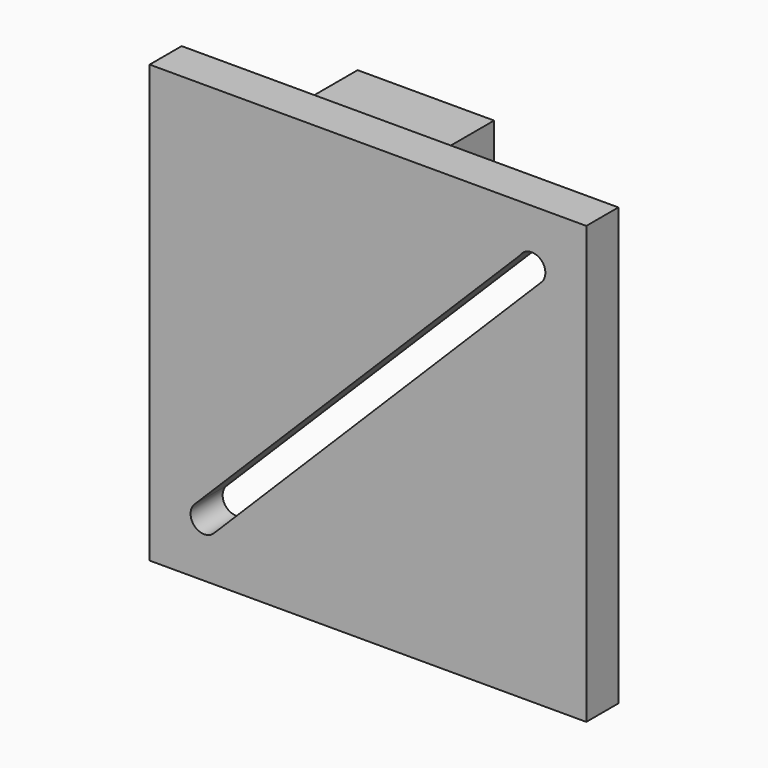
from build123d import *

# Parameters (mm, degrees)
F0_W     = 203.2
F0_H     = 203.2
F1_DEPTH = 18.6436
F2_W     = 50.8
F2_H     = 50.8
F3_DEPTH = 63.5
F5_R     = 6.35
F4_DEPTH = 94.754728


with BuildPart() as f1:
    # F0 (on Front) → F1 (new body)
    with BuildSketch(Plane.XZ):
        with Locations((6.846272, 0)):
            Rectangle(F0_W, F0_H)
        with BuildLine():
            ThreePointArc((-64.8636, -80.690128), (-73.845689, -80.688294), (-73.840188, -71.706207))
            Line((-73.840188, -71.706207), (77.633491, 79.520287))
            ThreePointArc((77.633491, 79.520287), (86.978633, 81.185883), (87.5364, 71.709872))
            Line((87.5364, 71.709872), (-64.8636, -80.690128))
        make_face(mode=Mode.SUBTRACT)
    extrude(amount=F1_DEPTH)


with BuildPart() as f3:
    # F2 (on Right) → F3 (new body)
    with BuildSketch(Plane.YZ):
        with Locations((37.859976, 50.8)):
            Rectangle(F2_W, F2_H)
    extrude(amount=-F3_DEPTH)

    # F5 (on face) → F4 (cut, through all)
    with BuildSketch(Plane.YZ):
        with Locations((37.859976, 50.8)):
            Circle(F5_R)
    extrude(amount=-F4_DEPTH, mode=Mode.SUBTRACT)


solid = Compound([f1.part, f3.part])
